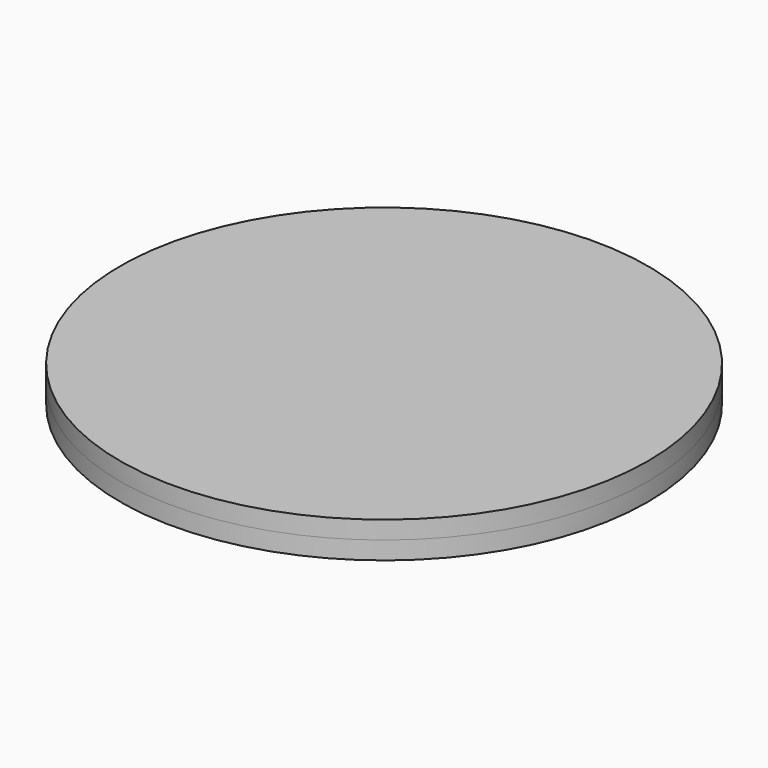
from build123d import *

# Parameters (mm, degrees)
F0_R          = 26.4784634716
F1_DEPTH      = 1.7988495529
F1_DEPTH_BACK = 1.8034


with BuildPart() as f1:
    # F0 (on Top) → F1 (new body, two sides)
    with BuildSketch(Plane.XY) as f1_sk:
        Circle(F0_R)
    extrude(amount=-F1_DEPTH)
    extrude(f1_sk.sketch, amount=F1_DEPTH_BACK)


solid = f1.part
